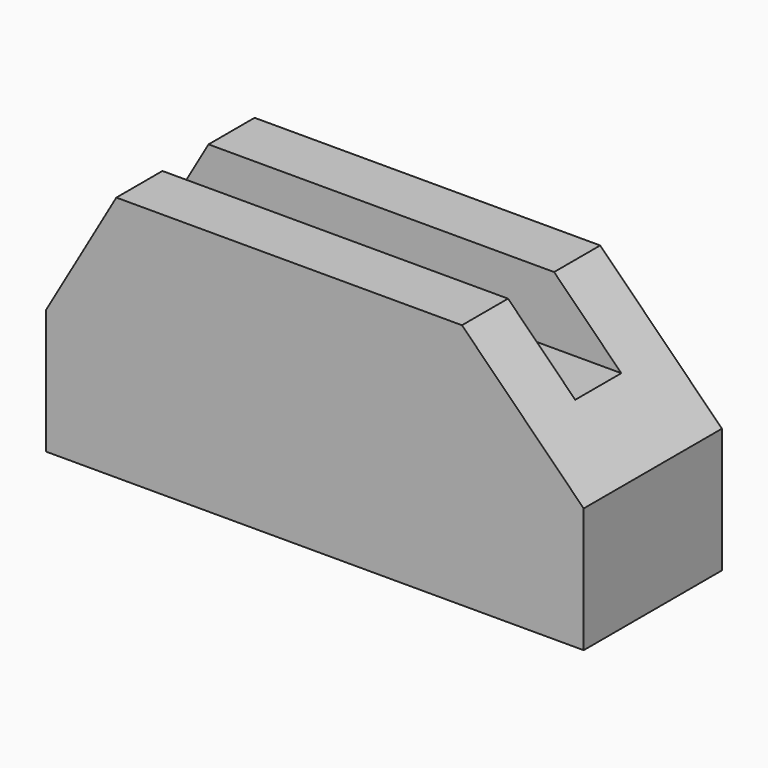
from build123d import *

# Parameters (mm, degrees)
PAD_DEPTH    = 9
SKETCH001_W  = 47
SKETCH001_H  = 6
POCKET_DEPTH = 7


with BuildPart() as part:
    # Sketch → Pad (new body, symmetric)
    with BuildSketch(Plane.XZ):
        Polygon((-20.679492, 25.679492), (15.320508, 25.679492), (28, 13), (28, 0), (-28, 0), (-28, 13), align=None)
    extrude(amount=PAD_DEPTH, both=True)

    # Sketch001 (on Face1 of Pad) → Pocket (cut)
    with BuildSketch(Plane(origin=(0, 0, 25.679492), x_dir=(-1, 0, 0), z_dir=(0, 0, 1))):
        Rectangle(SKETCH001_W, SKETCH001_H)
    extrude(amount=-POCKET_DEPTH, mode=Mode.SUBTRACT)


solid = part.part
